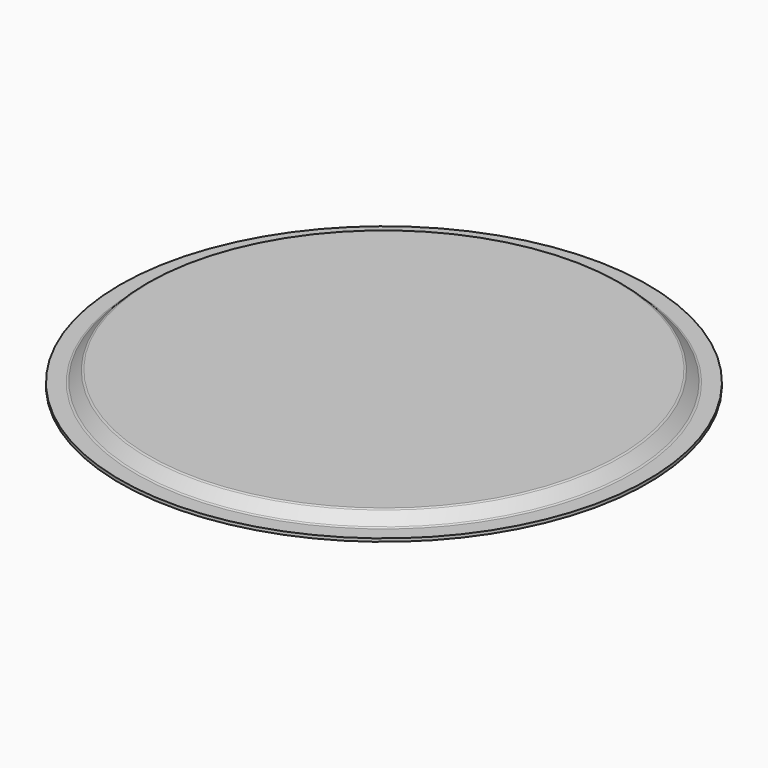
from build123d import *


with BuildPart() as f1:
    # F0 (on Front) → F1 (revolve)
    with BuildSketch(Plane.XZ):
        with BuildLine():
            Line((0, -3.429), (0, 0))
            Line((0, 0), (-261.955872, 0))
            ThreePointArc((-261.955872, 0), (-263.170892, -0.241682), (-264.200936, -0.929936))
            Line((-264.200936, -0.929936), (-275.041064, -11.770064))
            ThreePointArc((-275.041064, -11.770064), (-276.071108, -12.458318), (-277.286128, -12.7))
            Line((-277.286128, -12.7), (-295.021, -12.7))
            Line((-295.021, -12.7), (-295.021, -16.129))
            Line((-295.021, -16.129), (-277.286128, -16.129))
            ThreePointArc((-277.286128, -16.129), (-274.758887, -15.6263), (-272.616395, -14.194733))
            Line((-272.616395, -14.194733), (-261.850662, -3.429))
            Line((-261.850662, -3.429), (0, -3.429))
        make_face()
    revolve(axis=Axis((0, 0, -1.7145), (0, 0, -1)))


solid = f1.part
